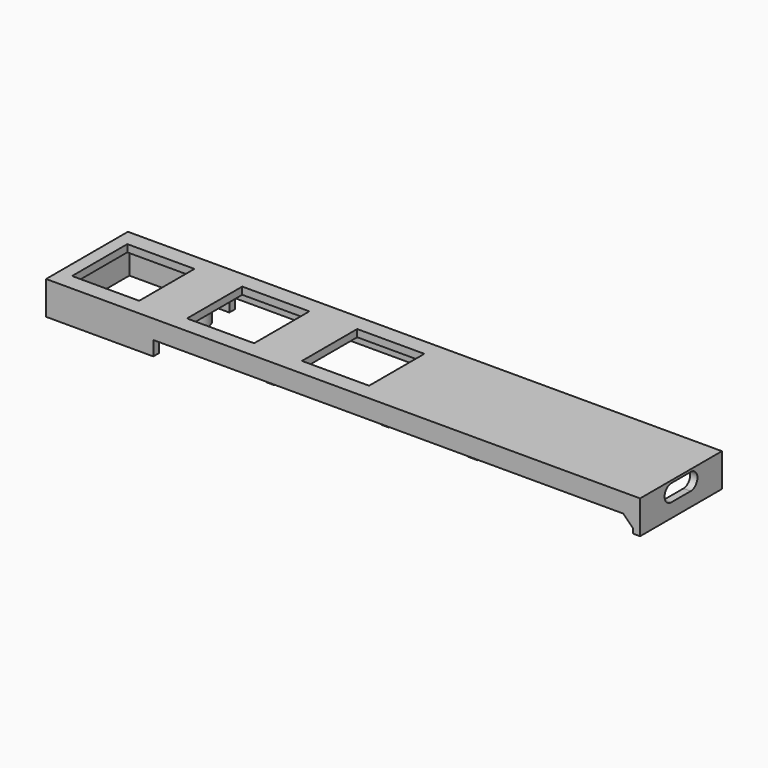
from build123d import *

# Parameters (mm, degrees)
SKETCH005_W     = 122.986
SKETCH005_H     = 21.18
SKETCH005_W_2   = 119.986
SKETCH005_H_2   = 18.18
PAD004_DEPTH    = 9.9
SKETCH006_W     = 122.986
SKETCH006_H     = 21.18
PAD005_DEPTH    = 1.5
SKETCH007_W     = 13.9
SKETCH007_H     = 14.3
POCKET001_DEPTH = 9.901
SKETCH008_R     = 1.45
SKETCH008_W     = 1.5
SKETCH008_H     = 18.18
PAD006_DEPTH    = 3.5
SKETCH009_W     = 7
SKETCH009_H     = 2
SKETCH009_W_2   = 13
PAD007_DEPTH    = 2
POCKET002_DEPTH = 6.5
SKETCH011_W     = 99.287
SKETCH011_H     = 1.5
POCKET003_DEPTH = 6
SKETCH012_W     = 1.5
SKETCH012_H     = 21.18
POCKET004_DEPTH = 3
CHAMFER003_SIZE = 2
SKETCH013_W     = 2
SKETCH013_H     = 18.18
PAD008_DEPTH    = 3.5


with BuildPart() as part:
    # Sketch005 (on ShapeBinder) → Pad004 (new body)
    with BuildSketch(Plane(origin=(-93.484762, 101.426, -4.3), x_dir=(1, 0, 0), z_dir=(0, 0, -1))):
        with Locations((153.277762, 92.79)):
            Rectangle(SKETCH005_W, SKETCH005_H)
        with Locations((153.277762, 92.79)):
            Rectangle(SKETCH005_W_2, SKETCH005_H_2, mode=Mode.SUBTRACT)
    extrude(amount=-PAD004_DEPTH)

    # Sketch006 (on Face10 of Pad004) → Pad005 (join)
    with BuildSketch(Plane(origin=(-93.484762, 101.426, 5.6), x_dir=(1, 0, 0), z_dir=(0, 0, 1))):
        with Locations((153.277762, -92.79)):
            Rectangle(SKETCH006_W, SKETCH006_H)
    extrude(amount=-PAD005_DEPTH)

    # Sketch007 (on Face16 of Pad005) → Pocket001 (cut, through all)
    with BuildSketch(Plane(origin=(-93.484762, 101.426, 5.6), x_dir=(1, 0, 0), z_dir=(0, 0, 1))):
        with Locations((101.358762, -92.79)):
            Rectangle(SKETCH007_W, SKETCH007_H)
        with Locations((125.158762, -92.79)):
            Rectangle(SKETCH007_W, SKETCH007_H)
        with Locations((148.958762, -92.79)):
            Rectangle(SKETCH007_W, SKETCH007_H)
    extrude(amount=-POCKET001_DEPTH, mode=Mode.SUBTRACT)

    # Sketch008 (on Face15 of Pocket001) → Pad006 (join)
    with BuildSketch(Plane(origin=(-93.484762, 101.426, 4.1), x_dir=(1, 0, 0), z_dir=(0, 0, -1))):
        with BuildLine():
            Line((112.483762, 96.208699), (112.483762, 101.88))
            Line((112.483762, 101.88), (113.983762, 101.88))
            Line((113.983762, 101.88), (113.983762, 96.208699))
            ThreePointArc((113.983762, 89.371301), (116.733762, 92.79), (113.983762, 96.208699))
            Line((113.983762, 83.7), (113.983762, 89.371301))
            Line((112.483762, 83.7), (113.983762, 83.7))
            Line((112.483762, 83.7), (112.483762, 89.371301))
            ThreePointArc((112.483762, 96.208699), (109.733762, 92.79), (112.483762, 89.371301))
        make_face()
        with Locations((113.233762, 92.79)):
            Circle(SKETCH008_R, mode=Mode.SUBTRACT)
        with Locations((136.983762, 92.79)):
            Rectangle(SKETCH008_W, SKETCH008_H)
        with BuildLine():
            Line((159.983762, 101.88), (161.483762, 101.88))
            Line((161.483762, 101.88), (161.483762, 96.208699))
            ThreePointArc((161.483762, 89.371301), (164.233762, 92.79), (161.483762, 96.208699))
            Line((161.483762, 83.7), (161.483762, 89.371301))
            Line((159.983762, 83.7), (161.483762, 83.7))
            Line((159.983762, 83.7), (159.983762, 89.371301))
            ThreePointArc((159.983762, 96.208699), (157.233762, 92.79), (159.983762, 89.371301))
            Line((159.983762, 101.88), (159.983762, 96.208699))
        make_face()
        with Locations((160.733762, 92.79)):
            Circle(SKETCH008_R, mode=Mode.SUBTRACT)
    extrude(amount=PAD006_DEPTH)

    # Sketch009 (on Face27 of Pad006) → Pad007 (join)
    with BuildSketch(Plane(origin=(-93.484762, 101.426, 4.1), x_dir=(1, 0, 0), z_dir=(0, 0, -1))):
        with Locations((194.770762, 84.7)):
            Rectangle(SKETCH009_W, SKETCH009_H)
        with Locations((191.770762, 100.88)):
            Rectangle(SKETCH009_W_2, SKETCH009_H)
    extrude(amount=PAD007_DEPTH)

    # Sketch010 (on Face5 of Pad007) → Pocket002 (cut)
    with BuildSketch(Plane(origin=(121.286, 101.426, -1.6), x_dir=(0, 1, 0), z_dir=(1, 0, 0))):
        with BuildLine():
            ThreePointArc((-95.29, 6.7), (-97.04, 4.95), (-95.29, 3.2))
            Line((-95.29, 3.2), (-90.29, 3.2))
            ThreePointArc((-90.29, 3.2), (-88.54, 4.95), (-90.29, 6.7))
            Line((-95.29, 6.7), (-90.29, 6.7))
        make_face()
    extrude(amount=-POCKET002_DEPTH, mode=Mode.SUBTRACT)

    # Sketch011 (on Face2 of Pocket002) → Pocket003 (cut)
    with BuildSketch(Plane(origin=(-93.484762, 101.426, -4.3), x_dir=(1, 0, 0), z_dir=(0, 0, -1))):
        with Locations((163.627262, 102.63)):
            Rectangle(SKETCH011_W, SKETCH011_H)
        with Locations((163.627262, 82.95)):
            Rectangle(SKETCH011_W, SKETCH011_H)
    extrude(amount=-POCKET003_DEPTH, mode=Mode.SUBTRACT)

    # Sketch012 (on Face6 of Pocket003) → Pocket004 (cut)
    with BuildSketch(Plane(origin=(-93.484762, 101.426, -4.3), x_dir=(1, 0, 0), z_dir=(0, 0, -1))):
        Polygon((113.983762, 103.38), (113.983762, 101.88), (93.284762, 101.88), (93.284762, 83.7), (113.983762, 83.7), (113.983762, 82.2), (91.784762, 82.2), (91.784762, 103.38), align=None)
        with Locations((214.020762, 92.79)):
            Rectangle(SKETCH012_W, SKETCH012_H)
    extrude(amount=-POCKET004_DEPTH, mode=Mode.SUBTRACT)

    # Chamfer003
    chamfer003_edges = [part.edges().sort_by_distance(p)[0] for p in [
        (119.786, 18.476, 1.7),
        (119.786, -1.204, 1.7),
    ]]
    chamfer(chamfer003_edges, length=CHAMFER003_SIZE)

    # Sketch013 (on Face31 of Chamfer003) → Pad008 (join)
    with BuildSketch(Plane(origin=(-93.484762, 101.426, 4.1), x_dir=(1, 0, 0), z_dir=(0, 0, -1))):
        with Locations((178.950762, 92.79)):
            Rectangle(SKETCH013_W, SKETCH013_H)
    extrude(amount=PAD008_DEPTH)


solid = part.part
